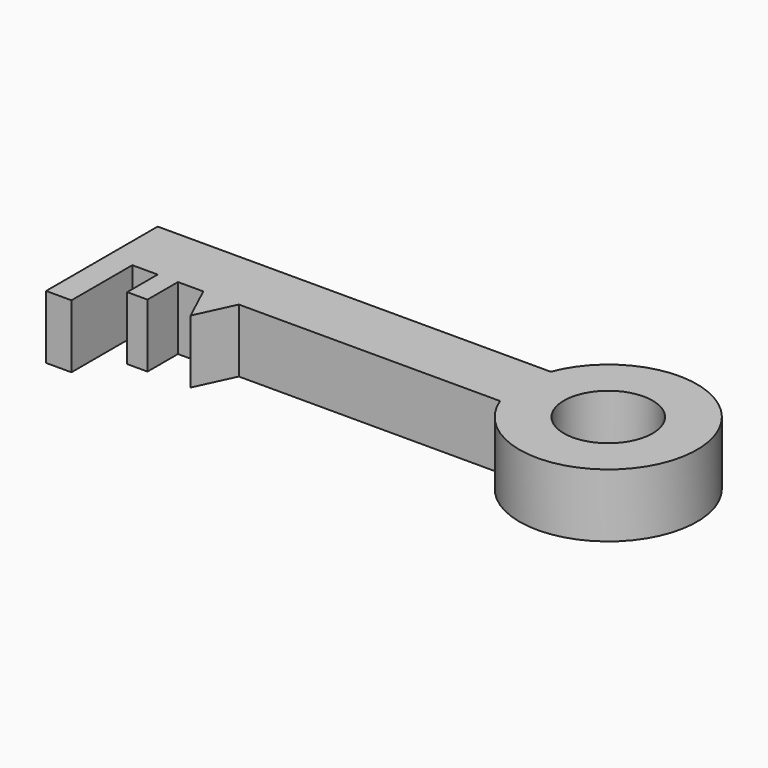
from build123d import *

# Parameters (mm, degrees)
F0_W     = 10
F0_H     = 30
F0_W_2   = 8
F0_H_2   = 15
F0_R     = 17.5
F1_DEPTH = 25


with BuildPart() as f1:
    # F0 (on Top) → F1 (new body)
    with BuildSketch(Plane.XY):
        with Locations((-120.967754, 6.763022)):
            Rectangle(F0_W, F0_H)
        with Locations((-101.967754, 14.263022)):
            Rectangle(F0_W_2, F0_H_2)
        Polygon((-80.967754, 6.762962), (-73.967754, 21.763022), (-87.967754, 21.763022), align=None)
        Polygon((29.032246, 46.763022), (-125.967754, 46.763022), (-125.967754, 21.763022), (-115.967754, 21.763022), (-105.967754, 21.763022), (-97.967754, 21.763022), (-87.967754, 21.763022), (-73.967754, 21.763022), (29.032246, 21.763022), align=None)
        with BuildLine():
            ThreePointArc((29.032246, 21.763022), (96.723988, 34.263022), (29.032246, 46.763022))
            Line((29.032246, 46.763022), (29.032246, 21.763022))
        make_face()
        with Locations((61.723988, 34.263022)):
            Circle(F0_R, mode=Mode.SUBTRACT)
    extrude(amount=F1_DEPTH)


solid = f1.part
